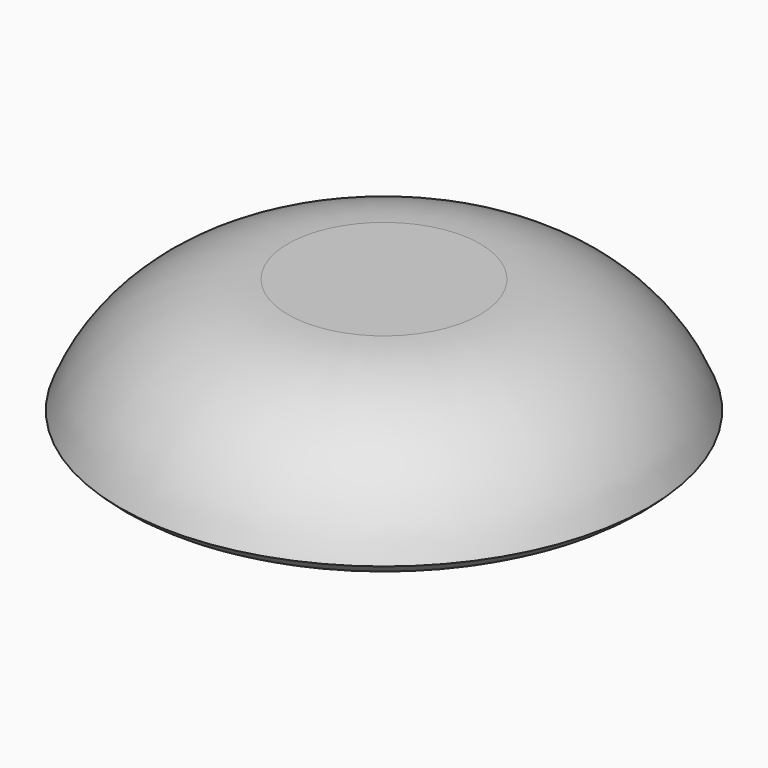
from build123d import *


with BuildPart() as f1:
    # F0 (on Front) → F1 (revolve)
    with BuildSketch(Plane.XZ):
        with BuildLine():
            Line((8, 0), (0, 0))
            Line((0, 0), (0, -15))
            Line((0, -15), (13.672727, -13))
            ThreePointArc((13.672727, -13), (15.659474, -12.478025), (17.465876, -11.5))
            ThreePointArc((17.465876, -11.5), (19.93462, -11.042495), (22, -9.614835))
            ThreePointArc((22, -9.614835), (16.491835, -2.635182), (8, 0))
        make_face()
    revolve(axis=Axis((0, 0, -7.5), (0, 0, 1)))


solid = f1.part
